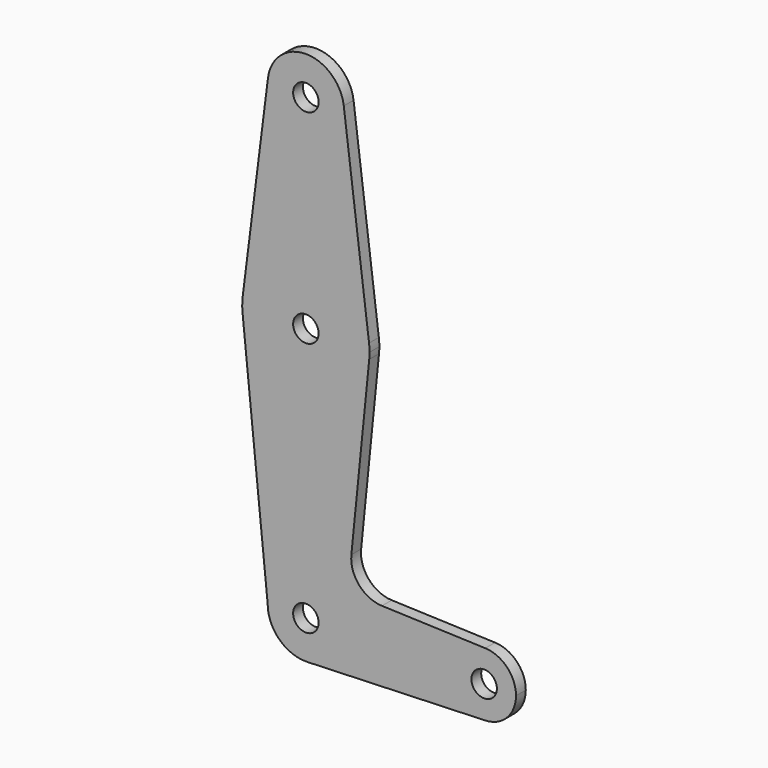
from build123d import *

# Parameters (mm, degrees)
F0_R     = 3.175
F1_DEPTH = 3.048


with BuildPart() as f1:
    # F0 (on Front) → F1 (new body)
    with BuildSketch(Plane.XZ):
        with BuildLine():
            ThreePointArc((15.7954255641, 61.9125), (0.0060905531, 47.6250011683), (-15.7942028036, 61.9003804205))
            Line((-15.7942028036, 61.9003804205), (-9.525, 0))
            ThreePointArc((-9.525, 0), (0, 9.525), (9.525, 0))
            ThreePointArc((9.525, 0), (6.8544082857, -6.6138273378), (0.3401785714, -9.5189234444))
            Line((0.3401785714, -9.5189234444), (44.7334821429, -7.9324362036))
            ThreePointArc((44.7334821429, -7.9324362036), (36.5125, 0), (44.7334821429, 7.9324362036))
            Line((44.7334821429, 7.9324362036), (18.9676000005, 8.8532337108))
            ThreePointArc((18.9676000005, 8.8532337108), (13.2611998974, 11.5713591498), (11.3411865923, 17.5933818124))
            Line((11.3411865923, 17.5933818124), (15.7954255641, 61.9125))
        make_face()
        with BuildLine():
            ThreePointArc((15.875, 63.5), (15.8438414904, 64.4941387366), (15.7504882737, 65.484375))
            ThreePointArc((15.7504882737, 65.484375), (0, 79.375), (-15.7504882737, 65.484375))
            ThreePointArc((-15.7504882737, 65.484375), (-15.8738192656, 63.6936154008), (-15.7942028036, 61.9003804205))
            ThreePointArc((-15.7942028036, 61.9003804205), (0.0060905531, 47.6250011683), (15.7954255641, 61.9125))
            ThreePointArc((15.7954255641, 61.9125), (15.8550939106, 62.7052534459), (15.875, 63.5))
        make_face()
        with Locations((0, 63.5)):
            Circle(F0_R, mode=Mode.SUBTRACT)
        with BuildLine():
            ThreePointArc((9.4502929642, 115.490625), (9.5063048942, 114.896483242), (9.525, 114.3))
            ThreePointArc((9.525, 114.3), (-0.596483242, 104.7936951058), (-9.4502929642, 115.490625))
            Line((-9.4502929642, 115.490625), (-15.7504882737, 65.484375))
            ThreePointArc((-15.7504882737, 65.484375), (0, 79.375), (15.7504882737, 65.484375))
            Line((15.7504882737, 65.484375), (9.4502929642, 115.490625))
        make_face()
        with Locations((-3.175, 100.0252)):
            Circle(F0_R, mode=Mode.SUBTRACT)
        with BuildLine():
            ThreePointArc((-9.4502929642, 115.490625), (-0.596483242, 104.7936951058), (9.525, 114.3))
            ThreePointArc((9.525, 114.3), (9.5063048942, 114.896483242), (9.4502929642, 115.490625))
            ThreePointArc((9.4502929642, 115.490625), (0, 123.825), (-9.4502929642, 115.490625))
        make_face()
        with Locations((0, 114.3)):
            Circle(F0_R, mode=Mode.SUBTRACT)
        with BuildLine():
            ThreePointArc((9.525, 0), (0, 9.525), (-9.525, 0))
            ThreePointArc((-9.525, 0), (-6.6138273378, -6.8544082857), (0.3401785714, -9.5189234444))
            ThreePointArc((0.3401785714, -9.5189234444), (6.8544082857, -6.6138273378), (9.525, 0))
        make_face()
        Circle(F0_R, mode=Mode.SUBTRACT)
        with BuildLine():
            ThreePointArc((44.7334821429, 7.9324362036), (36.5125, 0), (44.7334821429, -7.9324362036))
            ThreePointArc((44.7334821429, -7.9324362036), (50.1620069047, -5.5115227815), (52.3875, 0))
            ThreePointArc((52.3875, 0), (50.1620069047, 5.5115227815), (44.7334821429, 7.9324362036))
        make_face()
        with Locations((44.45, 0)):
            Circle(F0_R, mode=Mode.SUBTRACT)
        with Locations((-3.175, 100.0252)):
            Circle(F0_R)
    extrude(amount=F1_DEPTH)


solid = f1.part
